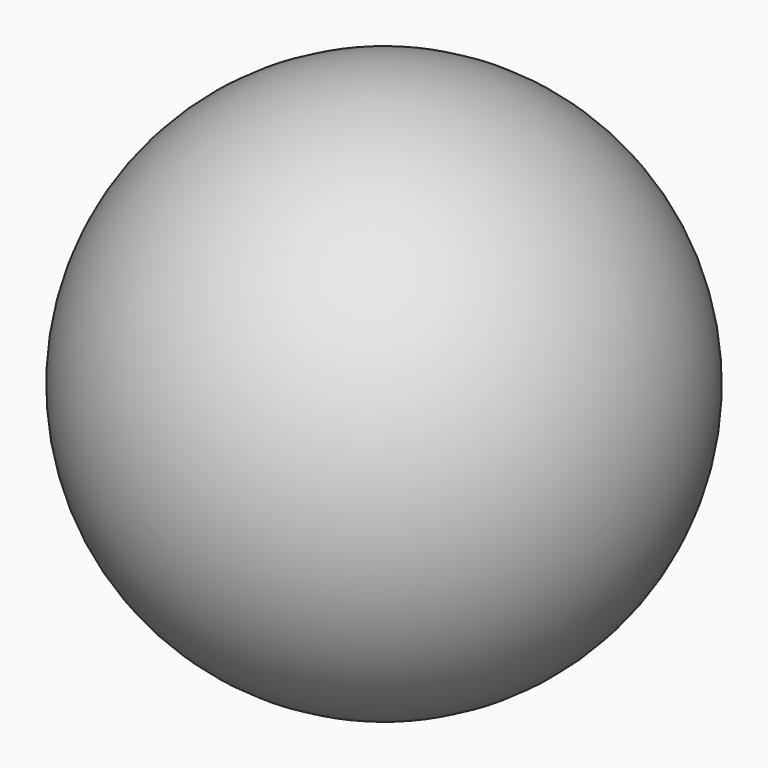
from build123d import *


with BuildPart() as f1:
    # F0 (on Front) → F1 (revolve)
    with BuildSketch(Plane.XZ):
        with BuildLine():
            Line((0, -62.700961), (0, 62.700961))
            ThreePointArc((0, 62.700961), (-62.700961, 0), (0, -62.700961))
        make_face()
    revolve(axis=Axis((0, 0, 4e-06), (0, 0, 1)))


solid = f1.part
